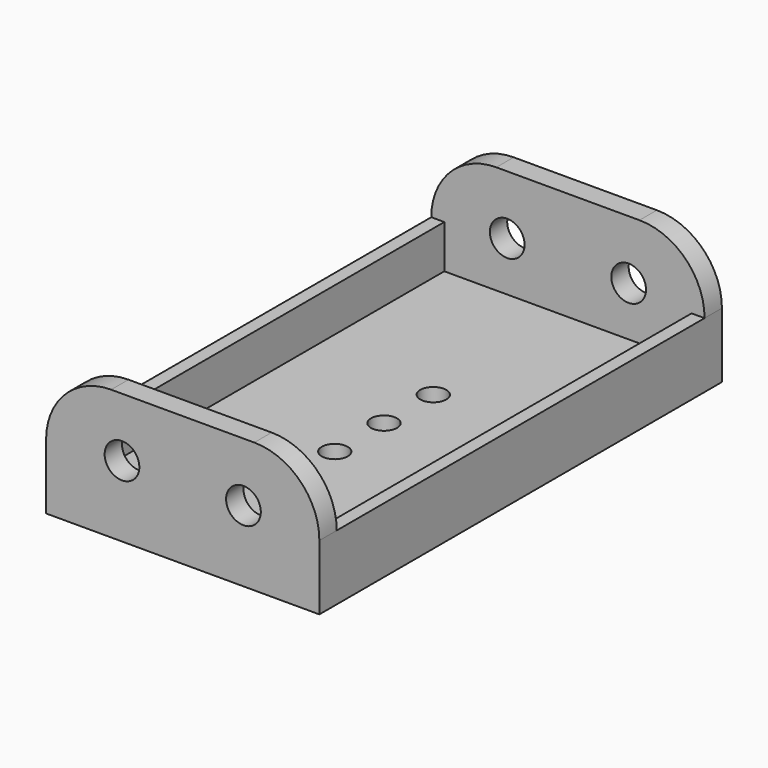
from build123d import *

# Parameters (mm, degrees)
SKETCH_W          = 31.5
SKETCH_H          = 58
PAD_DEPTH         = 15
FILLET_R          = 7.5
SKETCH001_W       = 53
SKETCH001_H       = 15
POCKET_DEPTH      = 15.751
POCKET_DEPTH_BACK = 15.751
SKETCH002_W       = 28.5
SKETCH002_H       = 53
POCKET001_DEPTH   = 5
SKETCH003_R       = 1.5
POCKET002_DEPTH   = 15.001
SKETCH004_R       = 2
POCKET003_DEPTH   = 58.001


with BuildPart() as part:
    # Sketch → Pad (new body)
    with BuildSketch(Plane.XY):
        Rectangle(SKETCH_W, SKETCH_H)
    extrude(amount=PAD_DEPTH)

    # Fillet
    fillet_edges = [part.edges().sort_by_distance(p)[0] for p in [
        (15.75, 0, 15),
        (-15.75, 0, 15),
    ]]
    fillet(fillet_edges, radius=FILLET_R)

    # Sketch001 → Pocket (cut, two sides)
    with BuildSketch(Plane.YZ) as pocket_sk:
        with Locations((0, 15)):
            Rectangle(SKETCH001_W, SKETCH001_H)
    extrude(amount=-POCKET_DEPTH, mode=Mode.SUBTRACT)
    extrude(pocket_sk.sketch, amount=POCKET_DEPTH_BACK, mode=Mode.SUBTRACT)

    # Sketch002 (on DatumPlane) → Pocket001 (cut)
    with BuildSketch(Plane.XY.offset(7.5)):
        Rectangle(SKETCH002_W, SKETCH002_H)
    extrude(amount=-POCKET001_DEPTH, mode=Mode.SUBTRACT)

    # Sketch003 → Pocket002 (cut, through all)
    with BuildSketch(Plane.XY):
        with Locations((0, 7.1)):
            Circle(SKETCH003_R)
        Circle(SKETCH003_R)
        with Locations((0, -7.1)):
            Circle(SKETCH003_R)
    extrude(amount=POCKET002_DEPTH, mode=Mode.SUBTRACT)

    # Sketch004 (on Face1 of Pocket002) → Pocket003 (cut, through all)
    with BuildSketch(Plane(origin=(0, 29, 0), x_dir=(-1, 0, 0), z_dir=(0, 1, 0))):
        with Locations((-7, 8.2)):
            Circle(SKETCH004_R)
        with Locations((7, 8.2)):
            Circle(SKETCH004_R)
    extrude(amount=-POCKET003_DEPTH, mode=Mode.SUBTRACT)


solid = part.part
